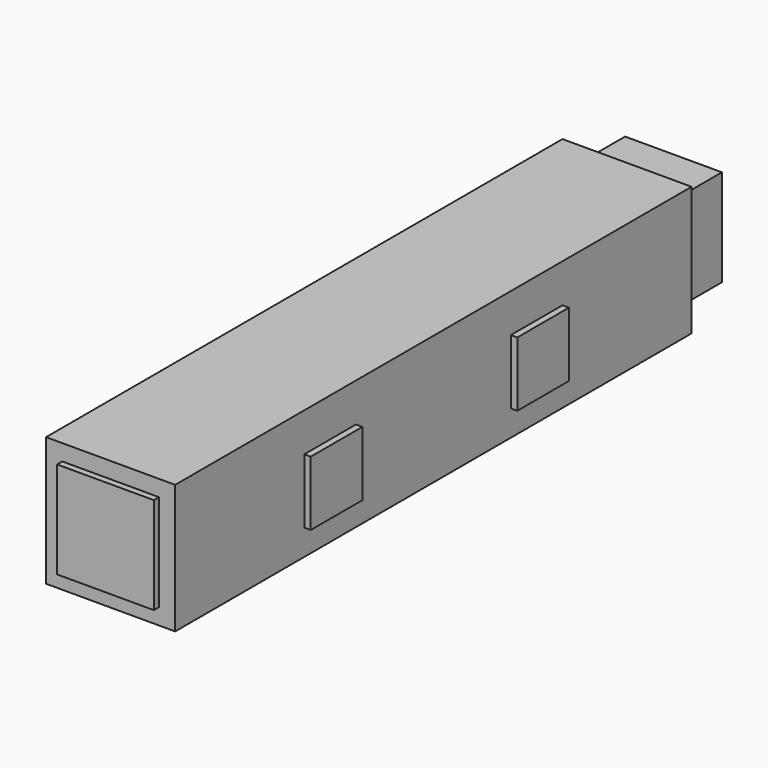
from build123d import *

# Parameters (mm, degrees)
BOX002_W     = 1
BOX002_H     = 10
BOX002_DEPTH = 10
BOX003_W     = 1
BOX003_H     = 10
BOX003_DEPTH = 10
BOX004_W     = 1
BOX004_H     = 10
BOX004_DEPTH = 10
BOX005_W     = 1
BOX005_H     = 10
BOX005_DEPTH = 10
BOX001_W     = 15
BOX001_H     = 110
BOX001_DEPTH = 15
BOX_W        = 20
BOX_H        = 100
BOX_DEPTH    = 20
BOX006_W     = 15
BOX006_H     = 110
BOX006_DEPTH = 15


with BuildPart() as cube002:
    # Box002 → Box002 (new body)
    with BuildSketch(Plane(origin=(20, 25, 4), x_dir=(1, 0, 0), z_dir=(0, 0, 1))):
        with Locations((0.5, 5)):
            Rectangle(BOX002_W, BOX002_H)
    extrude(amount=BOX002_DEPTH)


with BuildPart() as cube003:
    # Box003 → Box003 (new body)
    with BuildSketch(Plane(origin=(20, 65, 4), x_dir=(1, 0, 0), z_dir=(0, 0, 1))):
        with Locations((0.5, 5)):
            Rectangle(BOX003_W, BOX003_H)
    extrude(amount=BOX003_DEPTH)


with BuildPart() as cube004:
    # Box004 → Box004 (new body)
    with BuildSketch(Plane(origin=(-1, 65, 4), x_dir=(1, 0, 0), z_dir=(0, 0, 1))):
        with Locations((0.5, 5)):
            Rectangle(BOX004_W, BOX004_H)
    extrude(amount=BOX004_DEPTH)


with BuildPart() as cube005:
    # Box005 → Box005 (new body)
    with BuildSketch(Plane(origin=(-1, 25, 4), x_dir=(1, 0, 0), z_dir=(0, 0, 1))):
        with Locations((0.5, 5)):
            Rectangle(BOX005_W, BOX005_H)
    extrude(amount=BOX005_DEPTH)


with BuildPart() as cube001:
    # Box001 → Box001 (new body)
    with BuildSketch(Plane(origin=(2.5, -1, 2.5), x_dir=(1, 0, 0), z_dir=(0, 0, 1))):
        with Locations((7.5, 55)):
            Rectangle(BOX001_W, BOX001_H)
    extrude(amount=BOX001_DEPTH)


with BuildPart() as fusion:
    # Box → Box (new body)
    with BuildSketch(Plane.XY):
        with Locations((10, 50)):
            Rectangle(BOX_W, BOX_H)
    extrude(amount=BOX_DEPTH)

    # Cut: cut Cube001
    add(cube001.part, mode=Mode.SUBTRACT)

    # Fusion: union Cube002, Cube003, Cube004, Cube005
    add(cube002.part)
    add(cube003.part)
    add(cube004.part)
    add(cube005.part)


with BuildPart() as cube006:
    # Box006 → Box006 (new body)
    with BuildSketch(Plane(origin=(2.5, -1, 2.5), x_dir=(1, 0, 0), z_dir=(0, 0, 1))):
        with Locations((7.5, 55)):
            Rectangle(BOX006_W, BOX006_H)
    extrude(amount=BOX006_DEPTH)


solid = Compound([fusion.part, cube006.part])
